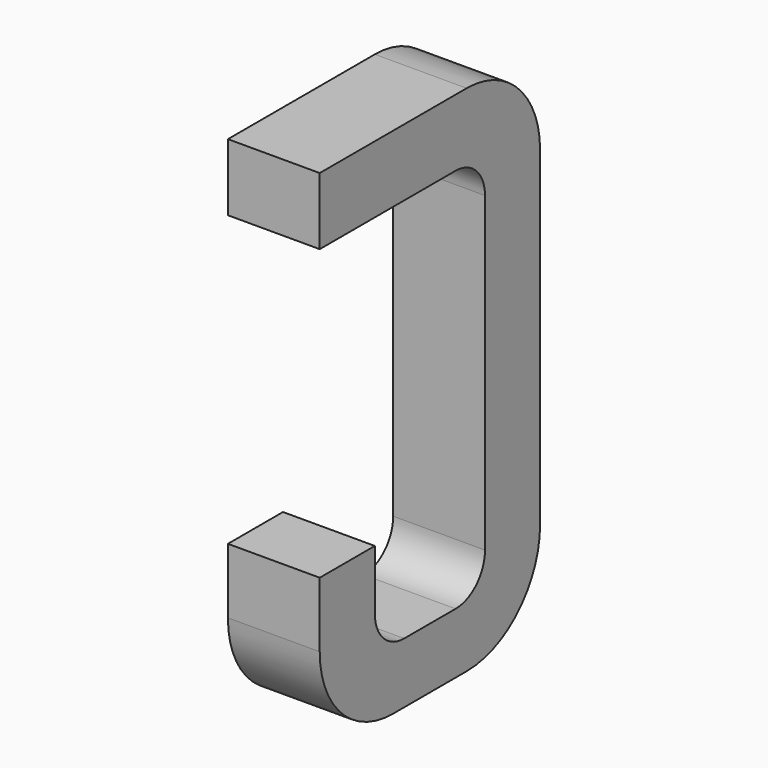
from build123d import *

# Parameters (mm, degrees)
BOX011_W     = 0.5
BOX011_H     = 1.5
BOX011_DEPTH = 2.795
FILLET024_R  = 0.5
FILLET026_R  = 0.5
FILLET023_R  = 0.5
BOX010_W     = 0.75
BOX010_H     = 2.1
BOX010_DEPTH = 1
FILLET025_R  = 0.2
FILLET027_R  = 0.2
FILLET021_R  = 0.2
FILLET022_R  = 0.2
BOX012_W     = 1
BOX012_H     = 1.575
BOX012_DEPTH = 3


with BuildPart() as part:
    # Box011 → Box011 (join)
    with BuildSketch(Plane(origin=(-0.25, 11.125, 0), x_dir=(1, 0, 0), z_dir=(0, 0, 1))):
        with Locations((0.25, 0.75)):
            Rectangle(BOX011_W, BOX011_H)
    extrude(amount=BOX011_DEPTH)

    # Fillet024
    fillet024_edges = [part.edges().sort_by_distance(p)[0] for p in [
        (0, 12.625, 0),
    ]]
    fillet(fillet024_edges, radius=FILLET024_R)

    # Fillet026
    fillet026_edges = [part.edges().sort_by_distance(p)[0] for p in [
        (0, 12.625, 2.795),
    ]]
    fillet(fillet026_edges, radius=FILLET026_R)

    # Fillet023
    fillet023_edges = [part.edges().sort_by_distance(p)[0] for p in [
        (0, 11.125, 0),
    ]]
    fillet(fillet023_edges, radius=FILLET023_R)

    # Box010 → Box010 (cut)
    with BuildSketch(Plane(origin=(-0.5, 11.5, 0.33), x_dir=(0, 1, 0), z_dir=(1, 0, 0))):
        with Locations((0.375, 1.05)):
            Rectangle(BOX010_W, BOX010_H)
    extrude(amount=BOX010_DEPTH, mode=Mode.SUBTRACT)

    # Fillet025
    fillet025_edges = [part.edges().sort_by_distance(p)[0] for p in [
        (0, 11.5, 0.33),
    ]]
    fillet(fillet025_edges, radius=FILLET025_R)

    # Fillet027
    fillet027_edges = [part.edges().sort_by_distance(p)[0] for p in [
        (0, 12.25, 0.33),
    ]]
    fillet(fillet027_edges, radius=FILLET027_R)

    # Fillet021
    fillet021_edges = [part.edges().sort_by_distance(p)[0] for p in [
        (0, 11.5, 2.43),
    ]]
    fillet(fillet021_edges, radius=FILLET021_R)

    # Fillet022
    fillet022_edges = [part.edges().sort_by_distance(p)[0] for p in [
        (0, 12.25, 2.43),
    ]]
    fillet(fillet022_edges, radius=FILLET022_R)

    # Box012 → Box012 (cut)
    with BuildSketch(Plane(origin=(-1, 11, 0.855), x_dir=(0, 1, 0), z_dir=(1, 0, 0))):
        with Locations((0.5, 0.7875)):
            Rectangle(BOX012_W, BOX012_H)
    extrude(amount=BOX012_DEPTH, mode=Mode.SUBTRACT)


with BuildPart() as part_1:
    # Body004 placement: moved
    add(part.part.moved(Location((3.81, 0, 0))))


solid = part_1.part
